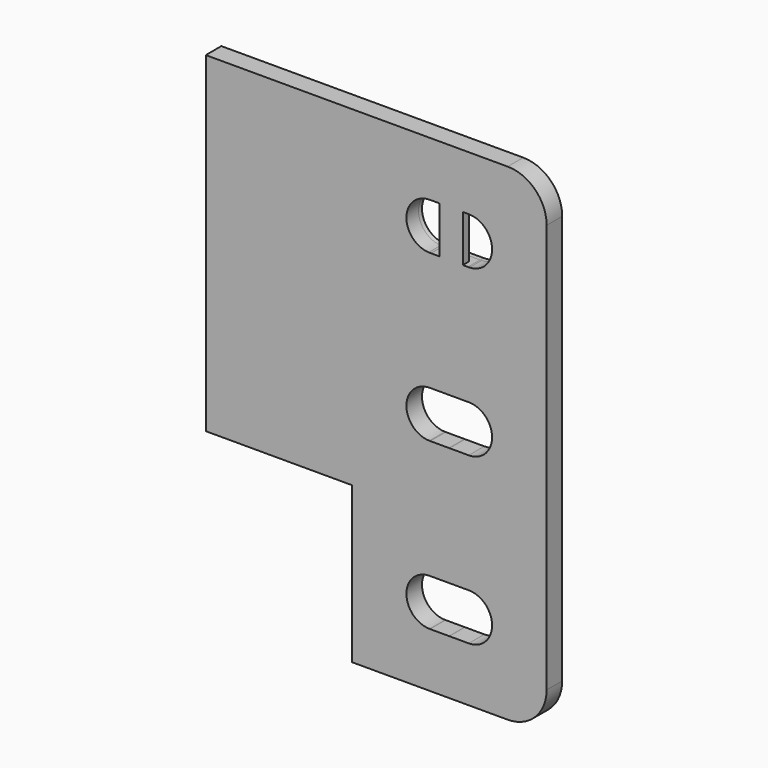
from build123d import *

# Parameters (mm, degrees)
F1_DEPTH = 10
F2_W     = 75
F2_H     = 80
F3_DEPTH = 25
F4_W     = 11.9431421733
F4_H     = 45.6254482269
F5_DEPTH = 4
F6_W     = 106.1663627625
F6_H     = 13.160943985
F7_DEPTH = 2.2
F7_TAPER = -3


with BuildPart() as f1:
    # F0 (on Front) → F1 (new body)
    with BuildSketch(Plane.XZ):
        with BuildLine():
            Line((2416.5239715576, -2930.4707694799), (2261.5239715576, -2930.4707694799))
            Line((2261.5239715576, -2930.4707694799), (2261.5239715576, -3180.4707694799))
            Line((2261.5239715576, -3180.4707694799), (2416.5239715576, -3180.4707694799))
            ThreePointArc((2416.5239715576, -3180.4707694799), (2430.6661071813, -3174.6129051036), (2436.5239715576, -3160.4707694799))
            Line((2436.5239715576, -3160.4707694799), (2436.5239715576, -2950.4707694799))
            ThreePointArc((2436.5239715576, -2950.4707694799), (2430.6661071813, -2936.3286338561), (2416.5239715576, -2930.4707694799))
        make_face()
        with BuildLine():
            ThreePointArc((2386.0222752693, -3128.4812615319), (2386.5194053701, -3128.4707703486), (2387.0165433111, -3128.4808831974))
            Line((2387.0165433111, -3128.4808831974), (2396.1245883641, -3128.4774174437))
            ThreePointArc((2396.1245883641, -3128.4774174437), (2396.5194053701, -3128.4707703486), (2396.9142273205, -3128.4771169737))
            ThreePointArc((2396.9142273205, -3128.4771169737), (2405.1461252664, -3132.1246047665), (2408.5239715576, -3140.4707694799))
            ThreePointArc((2408.5239715576, -3140.4707694799), (2405.0091179195, -3148.9561858643), (2396.5235896881, -3152.4707694738))
            Line((2396.5235896881, -3152.4707694738), (2386.6109812809, -3152.4704540302))
            ThreePointArc((2386.6109812809, -3152.4704540302), (2386.5235896881, -3152.4707694738), (2386.4361981155, -3152.4704484682))
            Line((2386.4361981155, -3152.4704484682), (2376.6471792504, -3152.4701369576))
            ThreePointArc((2376.6471792504, -3152.4701369576), (2376.5235896881, -3152.4707694738), (2376.4000001663, -3152.4701290917))
            ThreePointArc((2376.4000001663, -3152.4701290917), (2364.5261998632, -3140.7020147361), (2375.9377122847, -3128.485098866))
            ThreePointArc((2375.9377122847, -3128.485098866), (2376.5194053701, -3128.4707703486), (2377.1011091915, -3128.4846561752))
            Line((2377.1011091915, -3128.4846561752), (2386.0222752693, -3128.4812615319))
        make_face(mode=Mode.SUBTRACT)
        with BuildLine():
            ThreePointArc((2386.1524570887, -3043.476521817), (2386.5310921212, -3043.4707715925), (2386.9097200631, -3043.476971162))
            Line((2386.9097200631, -3043.476971162), (2395.9966068909, -3043.4823631426))
            ThreePointArc((2395.9966068909, -3043.4823631426), (2396.5310921212, -3043.4707715925), (2397.0655632188, -3043.4829974403))
            ThreePointArc((2397.0655632188, -3043.4829974403), (2405.1986214046, -3047.179180366), (2408.5239715576, -3055.4707694799))
            ThreePointArc((2408.5239715576, -3055.4707694799), (2405.0088213897, -3063.9564823743), (2396.5227510032, -3067.4707694178))
            Line((2396.5227510032, -3067.4707694178), (2386.678988276, -3067.4697681805))
            ThreePointArc((2386.678988276, -3067.4697681805), (2386.5227510032, -3067.4707694178), (2386.3665139374, -3067.4697363978))
            Line((2386.3665139374, -3067.4697363978), (2376.7436992517, -3067.4687576337))
            ThreePointArc((2376.7436992517, -3067.4687576337), (2376.5227510032, -3067.4707694178), (2376.3018031686, -3067.4687126872))
            ThreePointArc((2376.3018031686, -3067.4687126872), (2364.5243795036, -3055.3718223336), (2376.4996870262, -3043.4707940523))
            Line((2376.4996870262, -3043.4707940523), (2386.1524570887, -3043.476521817))
        make_face(mode=Mode.SUBTRACT)
        with BuildLine():
            ThreePointArc((2386.4361981157, -2958.4710904915), (2386.5235896881, -2958.4707694859), (2386.6109812808, -2958.4710849295))
            Line((2386.6109812808, -2958.4710849295), (2396.5235896881, -2958.4707694859))
            ThreePointArc((2396.5235896881, -2958.4707694859), (2405.0091179195, -2961.9853530954), (2408.5239715576, -2970.4707694799))
            ThreePointArc((2408.5239715576, -2970.4707694799), (2405.1461252664, -2978.8169341932), (2396.9142273205, -2982.4644219861))
            ThreePointArc((2396.9142273205, -2982.4644219861), (2396.5194053701, -2982.4707686111), (2396.1245883641, -2982.4641215161))
            Line((2396.1245883641, -2982.4641215161), (2387.0165433111, -2982.4606557624))
            ThreePointArc((2387.0165433111, -2982.4606557624), (2386.5194053701, -2982.4707686111), (2386.0222752693, -2982.4602774278))
            Line((2386.0222752693, -2982.4602774278), (2377.1011091916, -2982.4568827845))
            ThreePointArc((2377.1011091916, -2982.4568827845), (2376.5194053701, -2982.4707686111), (2375.9377122847, -2982.4564400938))
            ThreePointArc((2375.9377122847, -2982.4564400938), (2364.5261998632, -2970.2395242236), (2376.4000001663, -2958.471409868))
            ThreePointArc((2376.4000001663, -2958.471409868), (2376.523589688, -2958.4707694859), (2376.6471792503, -2958.4714020022))
            Line((2376.6471792503, -2958.4714020022), (2386.4361981157, -2958.4710904915))
        make_face(mode=Mode.SUBTRACT)
    extrude(amount=F1_DEPTH)

    # F2 (on face) → F3 (cut)
    with BuildSketch(Plane.XZ.offset(10)):
        with Locations((2299.0239715576, -3140.4707694799)):
            Rectangle(F2_W, F2_H)
    extrude(amount=-F3_DEPTH, mode=Mode.SUBTRACT)

    # F4 (on face) → F5 (join)
    with BuildSketch(Plane.XZ.offset(10)):
        with Locations((2387.5132597697, -2971.1128473282)):
            Rectangle(F4_W, F4_H)
    extrude(amount=-F5_DEPTH)

    # F6 (on face) → F7 (cut)
    with BuildSketch(Plane(origin=(0, 0, 0), x_dir=(-1, 0, 0), z_dir=(0, 1, 0))):
        with Locations((-2341.0234451294, -3013.2199525833)):
            Rectangle(F6_W, F6_H)
        with BuildLine():
            ThreePointArc((-2386.4361981157, -2958.4710904915), (-2386.5235896881, -2958.4707694859), (-2386.6109812808, -2958.4710849295))
            Line((-2386.6109812808, -2958.4710849295), (-2396.5235896881, -2958.4707694859))
            ThreePointArc((-2396.5235896881, -2958.4707694859), (-2408.5223126278, -2970.6702978312), (-2396.1245883641, -2982.4641215161))
            Line((-2396.1245883641, -2982.4641215161), (-2387.0165433111, -2982.4606557624))
            ThreePointArc((-2387.0165433111, -2982.4606557624), (-2386.5194053701, -2982.4707686111), (-2386.0222752693, -2982.4602774278))
            Line((-2386.0222752693, -2982.4602774278), (-2377.1011091916, -2982.4568827845))
            ThreePointArc((-2377.1011091916, -2982.4568827845), (-2364.5290948318, -2970.8213865538), (-2376.4000001663, -2958.4714098681))
            ThreePointArc((-2376.4000001663, -2958.471409868), (-2376.523589688, -2958.4707694859), (-2376.6471792503, -2958.4714020022))
            Line((-2376.6471792503, -2958.4714020022), (-2386.4361981157, -2958.4710904915))
        make_face()
    extrude(amount=-F7_DEPTH, taper=F7_TAPER, mode=Mode.SUBTRACT)


solid = f1.part
